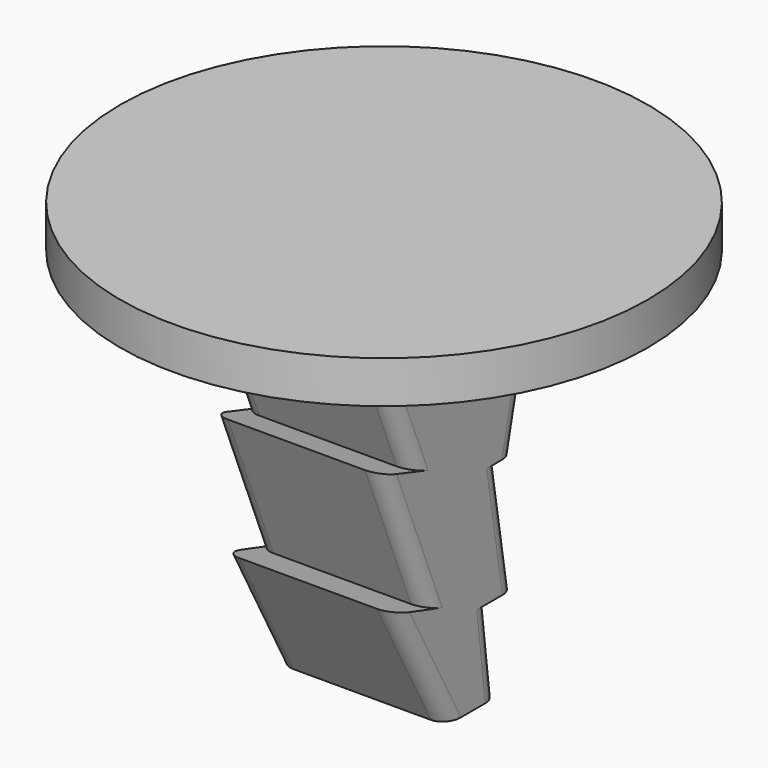
from build123d import *

# Parameters (mm, degrees)
F0_R          = 12.5
F1_DEPTH      = 2
F3_DEPTH      = 4
F3_DEPTH_BACK = 4
F4_R          = 0.75


with BuildPart() as f1:
    # F0 (on Top) → F1 (new body)
    with BuildSketch(Plane.XY):
        Circle(F0_R)
    extrude(amount=F1_DEPTH)

    # F2 (on Right) → F3 (join, two sides)
    with BuildSketch(Plane.YZ) as f3_sk:
        Polygon((4.633974, 0), (-6, 0), (-3.322237, -6.605754), (-5.188579, -6.005191), (-2.479827, -12.687395), (-4.499659, -12.065352), (-1.3, -18), (0, -18), (1.75, -18), (1.246213, -13.898331), (2.769501, -13.898331), (1.839659, -8.247796), (2.752447, -8.247796), align=None)
    extrude(amount=F3_DEPTH)
    extrude(f3_sk.sketch, amount=-F3_DEPTH_BACK)

    # F4
    f4_edges = [f1.edges().sort_by_distance(p)[0] for p in [
        (-4, 3.693211, -4.123898),
        (-4, -4.661119, -3.302877),
        (-4, 2.30458, -11.073063),
        (-4, -3.834203, -9.346293),
        (-4, 1.498106, -15.949165),
        (-4, -2.899829, -15.032676),
        (4, 3.693211, -4.123898),
        (4, 2.30458, -11.073063),
        (4, -2.899829, -15.032676),
        (4, 1.498106, -15.949165),
        (4, -3.834203, -9.346293),
        (4, -4.661119, -3.302877),
    ]]
    fillet(f4_edges, radius=F4_R)


solid = f1.part
